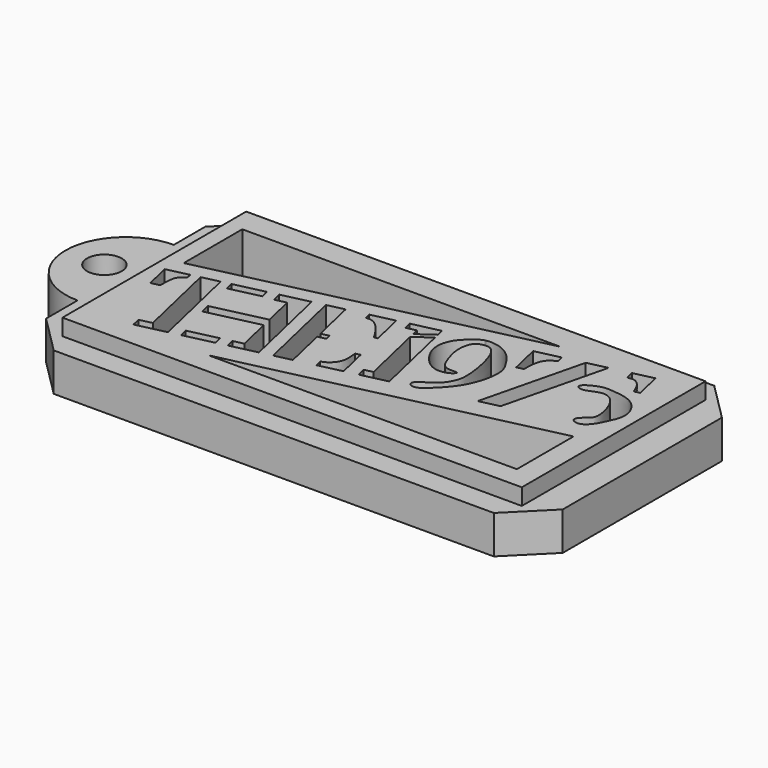
from build123d import *

# Parameters (mm, degrees)
F0_W     = 42
F0_H     = 21.0000003841
F0_R     = 1.5875
F1_DEPTH = 3.5
F2_DEPTH = 5
F3_SIZE  = 3.5


with BuildPart() as f1:
    # F0 (on Top) → F1 (new body)
    with BuildSketch(Plane.XY):
        Polygon((12.4456806419, -75.9436683108), (12.4456806419, -50.7520279537), (-34.7927891028, -50.7520279537), (-34.7927891028, -57.8478481323), (-34.7927891028, -68.8478481323), (-34.7927891028, -75.9436683108), align=None)
        with Locations((-11.1735542305, -63.3478481323)):
            Rectangle(F0_W, F0_H, mode=Mode.SUBTRACT)
        with BuildLine():
            Line((-34.7927891028, -68.8478481323), (-34.7927891028, -57.8478481323))
            ThreePointArc((-34.7927891028, -57.8478481323), (-40.2927891028, -63.3478481323), (-34.7927891028, -68.8478481323))
        make_face()
        with Locations((-36.7362312973, -63.3478481323)):
            Circle(F0_R, mode=Mode.SUBTRACT)
    extrude(amount=F1_DEPTH)

    # F0 (on Top) → F2 (join)
    with BuildSketch(Plane.XY):
        with Locations((-11.1735542305, -63.3478481323)):
            Rectangle(F0_W, F0_H)
        Polygon((-23.8786471596, -70.6747652911), (-24.0523247694, -69.9192682884), (-21.3913693228, -69.3075539071), (-21.2176917131, -70.0630509098), align=None, mode=Mode.SUBTRACT)
        with BuildLine():
            Line((-29.3031234232, -63.0108455718), (-29.1808595508, -62.9827389122))
            Line((-29.1808595508, -62.9827389122), (-29.0789026677, -63.4262510018))
            add(Edge.make_bspline(
                [(-29.0789026677, -63.4262510018), (-29.1529049011, -63.4749217309), (-29.2269071345, -63.52359246), (-29.2975002121, -63.575444281)],
                knots=[0, 0, 0, 0, 0.1087621201, 0.1087621201, 0.1087621201, 0.1087621201], degree=3))
            add(Edge.make_bspline(
                [(-29.2975002121, -63.575444281), (-29.4407570194, -63.6806688523), (-29.7818392383, -63.9929995997), (-29.8502979242, -64.8937824329), (-29.8452648282, -65.359848626), (-29.8429481134, -65.5743771161)],
                knots=[0.1087621201, 0.1087621201, 0.1087621201, 0.1087621201, 0.3294765954, 0.6913606358, 1, 1, 1, 1], degree=3))
            Line((-29.8429481134, -65.5743771161), (-30.6194010064, -65.7528721757))
            Line((-30.6194010064, -65.7528721757), (-31.152042225, -63.4358847142))
            Line((-31.152042225, -63.4358847142), (-29.3031234232, -63.0108455718))
        make_face(mode=Mode.SUBTRACT)
        Polygon((-26.6212822649, -70.461475033), (-28.3827131346, -62.7992568318), (-26.8300967187, -62.4423332344), (-24.8844293061, -70.9059797612), (-27.5470101393, -71.5180677949), (-27.7312466822, -70.7166394694), align=None, mode=Mode.SUBTRACT)
        Polygon((-22.1151918466, -62.2493569006), (-22.3097188553, -61.4031650847), (-19.8060117193, -60.827599769), (-17.8603443067, -69.2912462957), (-20.2754453234, -69.8464423724), (-20.4491229331, -69.0909453697), (-19.5141554776, -68.8760101519), (-20.2270498603, -65.7749220486), (-24.9856994855, -66.8688653595), (-25.1945621474, -65.9603135014), (-20.4359125222, -64.8663701905), (-21.0916182718, -62.0140524438), align=None, mode=Mode.SUBTRACT)
        Polygon((-16.7650099683, -69.0394450985), (-18.7106773809, -60.5757985718), (-17.1797895752, -60.2238700612), (-16.2458771635, -64.2863858277), (-15.5189143766, -64.119267813), (-15.4032469918, -64.6224205375), (-16.1302097787, -64.7895385522), (-15.2341221626, -68.687516588), align=None, mode=Mode.SUBTRACT)
        with BuildLine():
            Line((-13.4220172148, -68.2709404072), (-13.566144424, -67.6439875448))
            add(Edge.make_bspline(
                [(-13.566144424, -67.6439875448), (-13.4082443855, -67.5923367128), (-13.0304153818, -67.4687447074), (-12.2281508661, -66.6147026372), (-12.3328471311, -65.6560556519), (-12.3896358907, -65.1360717416)],
                knots=[0, 0, 0, 0, 0.24728713, 0.5917177152, 1, 1, 1, 1], degree=3))
            Line((-12.3896358907, -65.1360717416), (-11.9517928264, -65.0354180837))
            Line((-11.9517928264, -65.0354180837), (-11.3191259647, -67.7875167476))
            Line((-11.3191259647, -67.7875167476), (-13.4220172148, -68.2709404072))
        make_face(mode=Mode.SUBTRACT)
        Polygon((7.7991766311, -71.8813315034), (-20.3764773905, -71.8813315034), (7.7991766311, -65.404164518), align=None, mode=Mode.SUBTRACT)
        Polygon((-9.579917565, -66.5307860809), (-10.9288543825, -60.6629155825), (-9.4724264598, -59.6365244838), (-7.7853821944, -66.9751612131), (-10.1524341928, -67.5193115297), (-10.3395377834, -66.705411557), align=None, mode=Mode.SUBTRACT)
        Polygon((-25.8299135415, -62.9879073799), (-25.9992413825, -62.2513318561), (-23.2584126937, -61.6212557954), (-23.0890848527, -62.3578313192), align=None, mode=Mode.SUBTRACT)
        with BuildLine():
            Line((-15.3676846274, -59.8072938805), (-13.2647933773, -59.3238702209))
            Line((-13.2647933773, -59.3238702209), (-12.5849773482, -62.2810676002))
            Line((-12.5849773482, -62.2810676002), (-12.904051505, -62.3544180393))
            add(Edge.make_bspline(
                [(-15.2464591208, -60.3346244154), (-15.0101701985, -60.3236367336), (-14.4510433987, -60.2976367532), (-13.4710405423, -61.3625947324), (-13.0883127356, -62.0320933187), (-12.904051505, -62.3544180393)],
                knots=[0, 0, 0, 0, 0.2751200889, 0.6510123851, 1, 1, 1, 1], degree=3))
            Line((-15.2464591208, -60.3346244154), (-15.3676846274, -59.8072938805))
        make_face(mode=Mode.SUBTRACT)
        Polygon((-1.5881039416, -55.1595622412), (-30.680142343, -61.8473924696), (-30.680142343, -55.1595622412), align=None, mode=Mode.SUBTRACT)
        with BuildLine():
            add(Edge.make_bspline(
                [(-5.830886671, -66.5258515407), (-6.0736663814, -66.5575096275), (-6.5035654037, -66.3632312442), (-6.3257334719, -65.7385304616), (-4.9495379297, -65.1662633845), (-4.192641078, -64.0045721001), (-3.9300292571, -62.9890881807), (-4.2304422475, -60.5334124707), (-5.0571027333, -58.2462191907), (-6.307430195, -58.3471648479), (-6.9525176427, -58.8454709415), (-7.1322829636, -60.1932249465), (-6.7567254739, -61.4705901458), (-6.175632936, -63.107467012), (-4.5857114877, -62.6956114954), (-4.950262939, -63.1217841178), (-5.159715116, -63.2486870885)],
                knots=[0.5329099011, 0.5329099011, 0.5329099011, 0.5329099011, 0.556958659, 0.577778169, 0.615374937, 0.651515509, 0.6827242452, 0.7324060718, 0.7791038665, 0.8095828049, 0.8364215675, 0.8711747056, 0.9086218082, 0.9471028269, 0.9786734736, 1, 1, 1, 1], degree=3))
            add(Edge.make_bspline(
                [(-5.159715116, -63.2486870885), (-5.526691497, -63.4710308882), (-6.7303203701, -63.6529638599), (-8.1207575277, -62.1675926968), (-8.684448327, -60.6991851811), (-8.3258020191, -59.2150100073), (-7.2651210642, -58.2218085369), (-6.717008012, -57.8278416783), (-6.4041536497, -57.7467104109)],
                knots=[0, 0, 0, 0, 0.0373657204, 0.0804891749, 0.1192239311, 0.1564512634, 0.1939399901, 0.2230587403, 0.2230587403, 0.2230587403, 0.2230587403], degree=3))
            add(Edge.make_bspline(
                [(-6.4041536497, -57.7467104109), (-6.3779133736, -57.7399056254), (-6.3511578955, -57.7337417038), (-6.3238290857, -57.7282449793)],
                knots=[0.2230587403, 0.2230587403, 0.2230587403, 0.2230587403, 0.2255010398, 0.2255010398, 0.2255010398, 0.2255010398], degree=3))
            add(Edge.make_bspline(
                [(-6.3238290857, -57.7282449793), (-5.9006347692, -57.6431266514), (-4.7861863093, -57.7919477631), (-3.6422025528, -58.6454302727), (-2.8997918168, -59.7751315334), (-2.4110970663, -60.7021838077), (-2.5591947017, -62.4346323182), (-3.3383172922, -64.3370552032), (-4.536860668, -65.6224426324), (-5.3565533892, -66.3853381486), (-5.6919701344, -66.4939166794)],
                knots=[0.2255010398, 0.2255010398, 0.2255010398, 0.2255010398, 0.2633207349, 0.3006747911, 0.3364489049, 0.3677413222, 0.4079196888, 0.4527264513, 0.495708121, 0.5283640554, 0.5283640554, 0.5283640554, 0.5283640554], degree=3))
            add(Edge.make_bspline(
                [(-5.6919701344, -66.4939166794), (-5.7386615797, -66.5090312752), (-5.7849949407, -66.5198673324), (-5.830886671, -66.5258515407)],
                knots=[0.5283640554, 0.5283640554, 0.5283640554, 0.5283640554, 0.5329099011, 0.5329099011, 0.5329099011, 0.5329099011], degree=3))
        make_face(mode=Mode.SUBTRACT)
        Polygon((-12.0784910941, -59.7820829622), (-12.2380860706, -59.0878453653), (-9.731049607, -58.5115146864), (-9.579917565, -59.1689385474), (-11.0363454877, -60.195329646), (-11.1788864106, -59.5752771236), align=None, mode=Mode.SUBTRACT)
        with BuildLine():
            Line((-2.0771945366, -59.6139086394), (-2.702080155, -56.8956583573))
            Line((-2.702080155, -56.8956583573), (-0.4741277282, -56.3834849791))
            Line((-0.4741277282, -56.3834849791), (-0.3333516751, -56.9958603238))
            add(Edge.make_bspline(
                [(-0.3333516751, -56.9958603238), (-0.5520976853, -57.1027678098), (-1.0021799676, -57.3227360061), (-1.4176553986, -58.0580857336), (-1.4601082294, -58.9318940099), (-1.4743682047, -59.310276636), (-1.48064279, -59.476770198)],
                knots=[0, 0, 0, 0, 0.2490621927, 0.5124595417, 0.7854754899, 1, 1, 1, 1], degree=3))
            Line((-1.48064279, -59.476770198), (-2.0771945366, -59.6139086394))
        make_face(mode=Mode.SUBTRACT)
        Polygon((-0.9577497014, -65.4055892792), (1.3602408535, -55.9617907175), (3.1273785337, -55.5555518479), (0.8093879788, -64.9993504096), align=None, mode=Mode.SUBTRACT)
        with BuildLine():
            add(Edge.make_bspline(
                [(6.9954212547, -63.5772726656), (6.9330695696, -63.5999657692), (6.8690280112, -63.6151733968), (6.8034943563, -63.6213938267)],
                knots=[0.502734258, 0.502734258, 0.502734258, 0.502734258, 0.5138908654, 0.5138908654, 0.5138908654, 0.5138908654], degree=3))
            add(Edge.make_bspline(
                [(6.8034943563, -63.6213938267), (6.5280680143, -63.6475371919), (5.9379839385, -63.3882526345), (6.4554048999, -62.6902141948), (7.2117899369, -62.2897924754), (7.1434679198, -61.1530769035), (6.846203737, -60.1825881714), (6.2393728774, -59.0654306893), (5.0684406421, -58.7061342118), (3.8214801505, -59.5688714364), (3.2056886397, -59.197763329), (3.2290456258, -59.0215449035)],
                knots=[0.5138908654, 0.5138908654, 0.5138908654, 0.5138908654, 0.5607801097, 0.6055748205, 0.6563120185, 0.7123148508, 0.7702503046, 0.8315987566, 0.88978324, 0.9572089224, 1, 1, 1, 1], degree=3))
            add(Edge.make_bspline(
                [(3.2290456258, -59.0215449035), (3.2652110623, -58.7486922227), (4.4941579879, -58.1023956217), (5.3368756313, -58.1125977701), (7.3251793107, -58.2993406645), (8.4104068165, -59.3983313476), (8.7957798543, -60.7302654457), (8.2692511263, -61.9418731309), (7.7956147171, -62.955385676), (7.2563060791, -63.4823227644), (6.9954212547, -63.5772726656)],
                knots=[0, 0, 0, 0, 0.0662567504, 0.1223814964, 0.1989312922, 0.2673014857, 0.3307350857, 0.3938931949, 0.4560540512, 0.502734258, 0.502734258, 0.502734258, 0.502734258], degree=3))
        make_face(mode=Mode.SUBTRACT)
        with BuildLine():
            Line((4.9227873014, -55.1428138726), (6.7492142055, -54.7229452855))
            Line((6.7492142055, -54.7229452855), (7.3112121056, -57.1676342107))
            Line((7.3112121056, -57.1676342107), (6.8034943563, -57.2843510273))
            add(Edge.make_bspline(
                [(5.0955493207, -55.8943280603), (5.3324719755, -55.8568970162), (5.8274475888, -55.7786965841), (6.4784668011, -56.419835278), (6.6928249397, -56.9899899735), (6.8034943563, -57.2843510273)],
                knots=[0, 0, 0, 0, 0.3075313567, 0.6424903607, 1, 1, 1, 1], degree=3))
            Line((5.0955493207, -55.8943280603), (4.9227873014, -55.1428138726))
        make_face(mode=Mode.SUBTRACT)
    extrude(amount=F2_DEPTH)

    # F3
    f3_edges = [f1.edges().sort_by_distance(p)[0] for p in [
        (-34.792789, -50.752028, 1.75),
        (-34.792789, -75.943668, 1.75),
        (12.445681, -75.943668, 1.75),
        (12.445681, -50.752028, 1.75),
    ]]
    chamfer(f3_edges, length=F3_SIZE)


solid = f1.part
